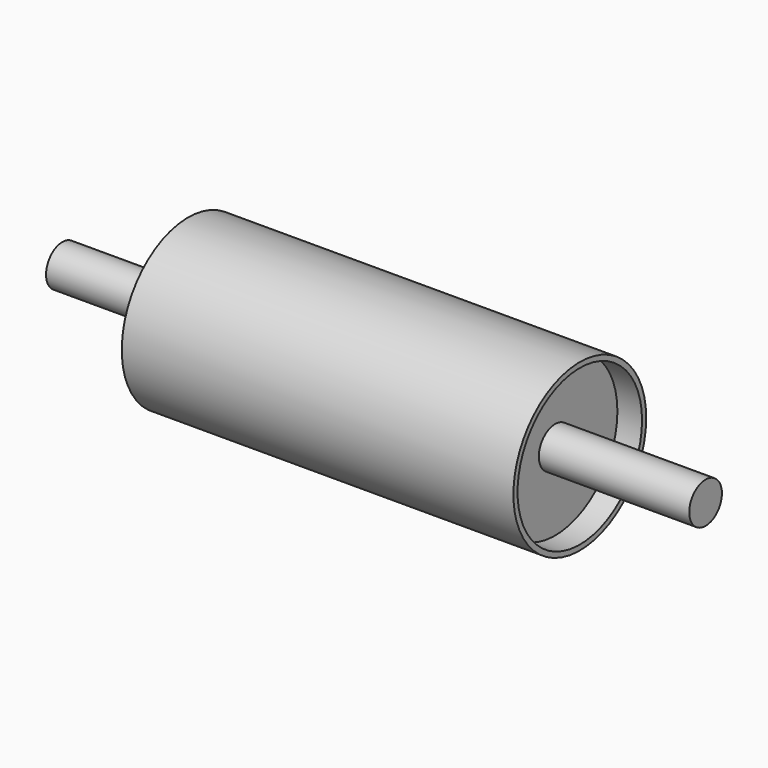
from build123d import *

# Parameters (mm, degrees)
F0_R     = 203.2
F0_R_2   = 190.5
F1_DEPTH = 479.425
F0_R_3   = 50.00625
F2_DEPTH = 787.4
F3_START = 393.7
F3_DEPTH = 25.4
F4_START = -393.7
F4_DEPTH = 25.4


with BuildPart() as f1:
    # F0 (on Right) → F1 (new body, symmetric)
    with BuildSketch(Plane.YZ):
        Circle(F0_R)
        Circle(F0_R_2, mode=Mode.SUBTRACT)
    extrude(amount=F1_DEPTH, both=True)


with BuildPart() as f2:
    # F0 (on Right) → F2 (new body, symmetric)
    with BuildSketch(Plane.YZ):
        Circle(F0_R_3)
    extrude(amount=F2_DEPTH, both=True)


with BuildPart() as f3:
    # F0 (on Right) → F3 (new body)
    with BuildSketch(Plane.YZ.offset(F3_START)):
        Circle(F0_R_2)
        Circle(F0_R_3, mode=Mode.SUBTRACT)
    extrude(amount=F3_DEPTH)


with BuildPart() as f4:
    # F0 (on Right) → F4 (new body)
    with BuildSketch(Plane.YZ.offset(F4_START)):
        Circle(F0_R_2)
        Circle(F0_R_3, mode=Mode.SUBTRACT)
    extrude(amount=-F4_DEPTH)


solid = Compound([f1.part, f2.part, f3.part, f4.part])
